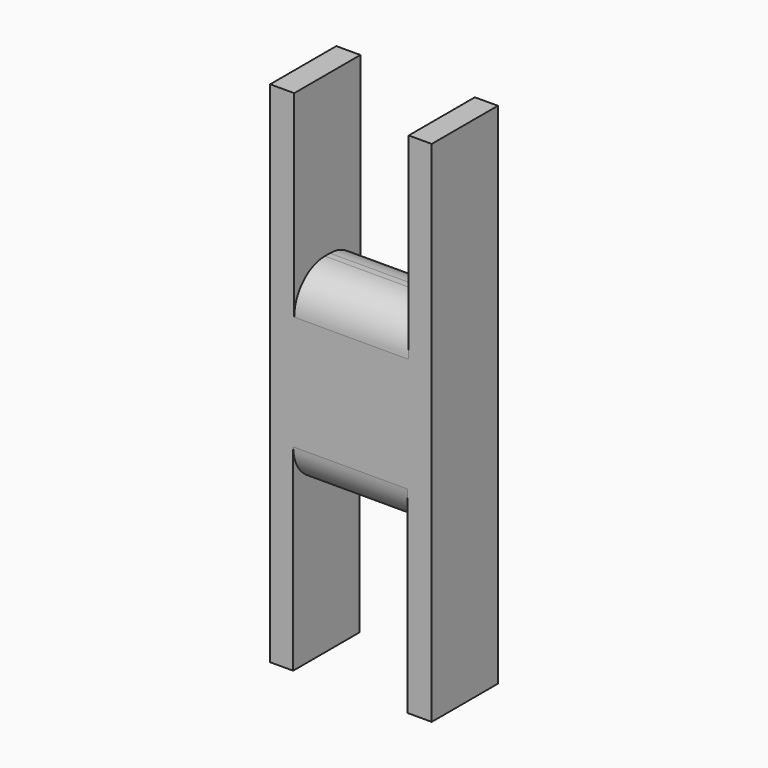
from build123d import *

# Parameters (mm, degrees)
F1_DEPTH = 82.55
F2_R     = 76.2


with BuildPart() as f1:
    # F0 (on Front) → F1 (new body, symmetric)
    with BuildSketch(Plane.XZ):
        Polygon((161.29, -508), (161.29, 508), (115.3964, 508), (115.3964, 190.5), (0, 190.5), (-113.2036, 190.5), (-113.2036, 508), (-161.29, 508), (-161.29, -508), (-115.3964, -508), (-115.3964, -190.5), (0, -190.5), (113.2036, -190.5), (113.2036, -508), align=None)
    extrude(amount=F1_DEPTH, both=True)

    # F2
    f2_edges = [f1.edges().sort_by_distance(p)[0] for p in [
        (1.0964, -82.55, 190.5),
        (1.0964, 82.55, 190.5),
        (-1.0964, 82.55, -190.5),
        (-1.0964, -82.55, -190.5),
    ]]
    fillet(f2_edges, radius=F2_R)


solid = f1.part
